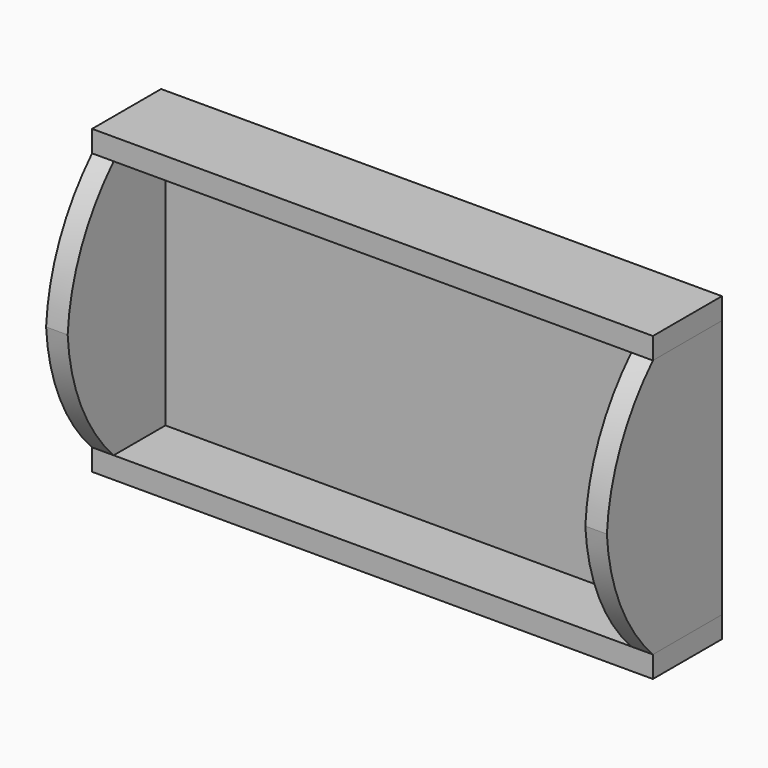
from build123d import *

# Parameters (mm, degrees)
F0_W     = 76.2
F0_H     = 228.6
F1_DEPTH = 19.05
F4_W     = 457.2
F4_H     = 228.6
F5_DEPTH = 19.05
F6_W     = 495.3
F6_H     = 76.2
F7_DEPTH = 19.05


with BuildPart() as f1:
    # F0 (on Right) → F1 (new body)
    with BuildSketch(Plane.YZ):
        with Locations((-38.1, 0)):
            Rectangle(F0_W, F0_H)
        with BuildLine():
            Line((-76.2, -114.3), (-76.2, 114.3))
            ThreePointArc((-76.2, 114.3), (-111.96338, 61.755947), (-127, 0))
            ThreePointArc((-127, 0), (-111.96338, -61.755947), (-76.2, -114.3))
        make_face()
    extrude(amount=F1_DEPTH)


with BuildPart() as f2_1:
    # F2: copy of F1
    add(f1.part.moved(Location((228.6, 0, 0))))


with BuildPart() as f1_1:
    # F3: moved
    add(f1.part.moved(Location((-247.65, 0, 0))))


with BuildPart() as f5:
    # F4 (on Front) → F5 (new body)
    with BuildSketch(Plane.XZ):
        Rectangle(F4_W, F4_H)
    extrude(amount=F5_DEPTH)


with BuildPart() as f7:
    # F6 (on Top) → F7 (new body)
    with BuildSketch(Plane.XY):
        with Locations((0, -38.1)):
            Rectangle(F6_W, F6_H)
    extrude(amount=F7_DEPTH)


with BuildPart() as f8_1:
    # F8: copy of F7
    add(f7.part.moved(Location((0, 0, 114.3))))


with BuildPart() as f7_1:
    # F9: moved
    add(f7.part.moved(Location((0, 0, -133.35))))


solid = Compound([f2_1.part, f1_1.part, f5.part, f8_1.part, f7_1.part])
